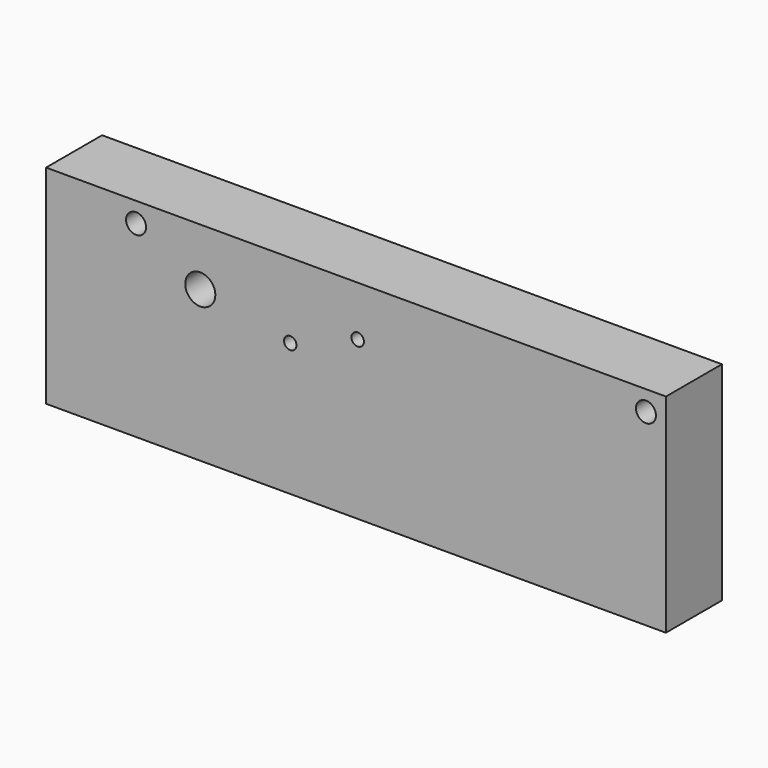
from build123d import *

# Parameters (mm, degrees)
F0_W     = 196.85
F0_H     = 22.225
F1_DEPTH = 66.04
F2_R     = 3.175
F2_R_2   = 4.7752
F2_R_3   = 1.9812
F3_DEPTH = 22.226


with BuildPart() as f1:
    # F0 (on Top) → F1 (new body)
    with BuildSketch(Plane.XY):
        with Locations((-0.5334, -0.205417)):
            Rectangle(F0_W, F0_H)
    extrude(amount=-F1_DEPTH)

    # F2 (on face) → F3 (cut, through all)
    with BuildSketch(Plane.XZ.offset(11.317917)):
        with Locations((91.5416, -6.35)):
            Circle(F2_R)
        with Locations((-70.3834, -6.35)):
            Circle(F2_R)
        with Locations((-49.9872, -18.1356)):
            Circle(F2_R_2)
        with Locations((-21.4122, -23.8506)):
            Circle(F2_R_3)
        with Locations((0, -15.875)):
            Circle(F2_R_3)
    extrude(amount=-F3_DEPTH, mode=Mode.SUBTRACT)


solid = f1.part
